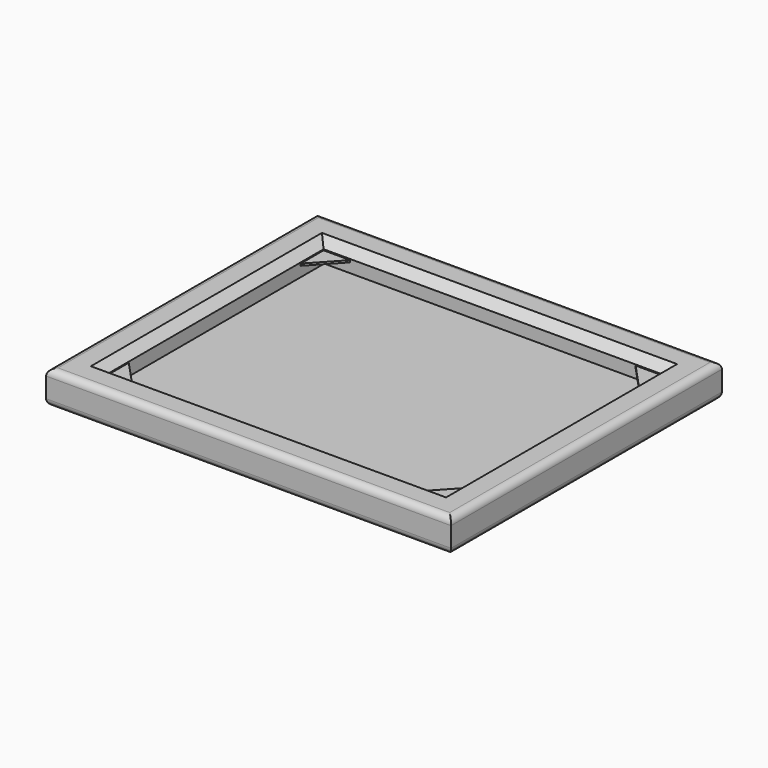
from build123d import *

# Parameters (mm, degrees)
F0_W      = 254
F0_H      = 203.2
F1_DEPTH  = 0.254
F0_W_2    = 309.88
F0_H_2    = 259.08
F0_W_3    = 259.08
F0_H_3    = 208.28
F2_DEPTH  = 25.4
F3_SIZE   = 6.35
F5_R      = 5.08
F6_W      = 259.08
F6_H      = 3.7094606087
F7_DEPTH  = 5.08
F8_W      = 213.36
F8_H      = 3.7094606087
F9_DEPTH  = 5.08
F10_W     = 264.16
F10_H     = 3.7094606087
F11_DEPTH = 5.08
F12_W     = 218.44
F12_H     = 3.7094606087
F13_DEPTH = 5.08
F16_DEPTH = 1.524


with BuildPart() as f1:
    # F0 (on Top) → F1 (new body)
    with BuildSketch(Plane.XY):
        Rectangle(F0_W, F0_H)
    extrude(amount=F1_DEPTH)


with BuildPart() as f2:
    # F0 (on Top) → F2 (new body)
    with BuildSketch(Plane.XY):
        Rectangle(F0_W_2, F0_H_2)
        Rectangle(F0_W_3, F0_H_3, mode=Mode.SUBTRACT)
    extrude(amount=F2_DEPTH)

    # F3
    f3_edges = [f2.edges().sort_by_distance(p)[0] for p in [
        (0, 104.14, 25.4),
        (-129.54, 0, 25.4),
        (129.54, 0, 25.4),
        (0, -104.14, 25.4),
    ]]
    chamfer(f3_edges, length=F3_SIZE)

    # F5
    f5_edges = [f2.edges().sort_by_distance(p)[0] for p in [
        (-154.94, 0, 25.4),
        (0, -129.54, 25.4),
        (154.94, 0, 25.4),
        (0, 129.54, 25.4),
        (154.94, 0, 0),
        (0, -129.54, 0),
        (-154.94, 0, 0),
        (0, 129.54, 0),
    ]]
    fillet(f5_edges, radius=F5_R)

    # F6 (on face) → F7 (cut)
    with BuildSketch(Plane.XZ.offset(-104.14)):
        with Locations((0, 4.4429339468)):
            Rectangle(F6_W, F6_H)
    extrude(amount=-F7_DEPTH, mode=Mode.SUBTRACT)

    # F8 (on face) → F9 (cut)
    with BuildSketch(Plane.YZ.offset(-129.54)):
        with Locations((2.54, 4.4429339468)):
            Rectangle(F8_W, F8_H)
    extrude(amount=-F9_DEPTH, mode=Mode.SUBTRACT)

    # F10 (on face) → F11 (cut)
    with BuildSketch(Plane(origin=(0, -104.14, 0), x_dir=(-1, 0, 0), z_dir=(0, 1, 0))):
        with Locations((2.54, 4.4429339468)):
            Rectangle(F10_W, F10_H)
    extrude(amount=-F11_DEPTH, mode=Mode.SUBTRACT)

    # F12 (on face) → F13 (cut)
    with BuildSketch(Plane(origin=(129.54, 0, 0), x_dir=(0, -1, 0), z_dir=(-1, 0, 0))):
        with Locations((0, 4.4429339468)):
            Rectangle(F12_W, F12_H)
    extrude(amount=-F13_DEPTH, mode=Mode.SUBTRACT)

    # F15 (on offset) → F16 (join)
    with BuildSketch(Plane.XY.offset(18.288)):
        Polygon((-131.1070173979, 80.5236697197), (-107.8912839293, 105.5615022779), (-132.7292174101, 109.3422397971), align=None)
        Polygon((-132.7292174101, -109.3422397971), (-107.8912839293, -105.5615022779), (-131.1070173979, -80.5236697197), align=None)
        Polygon((132.7292174101, 109.3422397971), (107.8912839293, 105.5615022779), (131.1070173979, 80.5236697197), align=None)
        Polygon((131.1070173979, -80.5236697197), (107.8912839293, -105.5615022779), (132.7292174101, -109.3422397971), align=None)
    extrude(amount=-F16_DEPTH)


with BuildPart() as f1_1:
    # F4: moved
    add(f1.part.moved(Location((0, 0, 10.922))))


solid = Compound([f2.part, f1_1.part])
